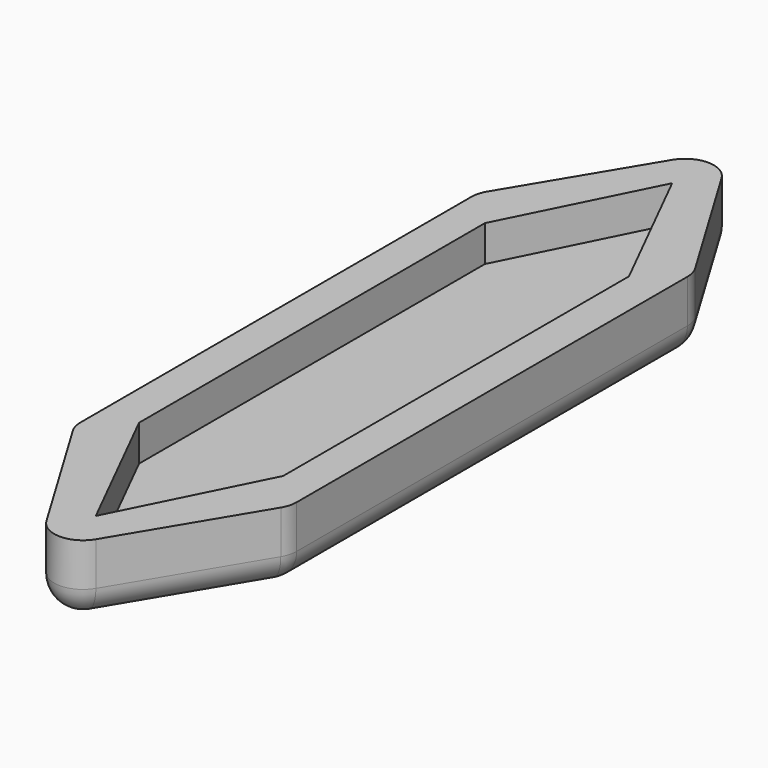
from build123d import *

# Parameters (mm, degrees)
F1_DEPTH = 12.7
F2_DEPTH = 6.35
F3_R     = 5.08
F4_R     = 5.08


with BuildPart() as f1:
    # F0 (on Top) → F1 (new body)
    with BuildSketch(Plane.XY):
        Polygon((-9.525, 44.45), (0, 63.5), (0, 76.2), (-19.05, 44.45), align=None)
        Polygon((0, 63.5), (9.525, 44.45), (19.05, 44.45), (0, 76.2), align=None)
        Polygon((9.525, 44.45), (12.7, 38.1), (12.7, -38.1), (9.525, -44.45), (19.05, -44.45), (19.05, 44.45), align=None)
        Polygon((-12.7, -38.1), (-12.7, 38.1), (-9.525, 44.45), (-19.05, 44.45), (-19.05, -44.45), (-9.525, -44.45), align=None)
        Polygon((0, -76.2), (0, -63.5), (-9.525, -44.45), (-19.05, -44.45), align=None)
        Polygon((19.05, -44.45), (9.525, -44.45), (0, -63.5), (0, -76.2), align=None)
    extrude(amount=F1_DEPTH)

    # F0 (on Top) → F2 (join)
    with BuildSketch(Plane.XY):
        Polygon((0, 38.1), (12.7, 38.1), (9.525, 44.45), (0, 44.45), align=None)
        Polygon((-12.7, 38.1), (0, 38.1), (0, 44.45), (-9.525, 44.45), align=None)
        Polygon((0, 44.45), (0, 63.5), (-9.525, 44.45), align=None)
        Polygon((0, 44.45), (9.525, 44.45), (0, 63.5), align=None)
        Polygon((12.7, -38.1), (12.7, 38.1), (0, 38.1), (-12.7, 38.1), (-12.7, -38.1), (0, -38.1), align=None)
        Polygon((0, -63.5), (9.525, -44.45), (0, -44.45), align=None)
        Polygon((-9.525, -44.45), (0, -63.5), (0, -44.45), align=None)
        Polygon((0, -44.45), (0, -38.1), (-12.7, -38.1), (-9.525, -44.45), align=None)
        Polygon((9.525, -44.45), (12.7, -38.1), (0, -38.1), (0, -44.45), align=None)
    extrude(amount=F2_DEPTH)

    # F3
    f3_edges = [f1.edges().sort_by_distance(p)[0] for p in [
        (19.05, -44.45, 6.35),
        (0, -76.2, 6.35),
        (-19.05, -44.45, 6.35),
        (-19.05, 44.45, 6.35),
        (0, 76.2, 6.35),
        (19.05, 44.45, 6.35),
    ]]
    fillet(f3_edges, radius=F3_R)

    # F4
    f4_edges = [f1.edges().sort_by_distance(p)[0] for p in [
        (-19.05, 0, 0),
    ]]
    fillet(f4_edges, radius=F4_R)


solid = f1.part
